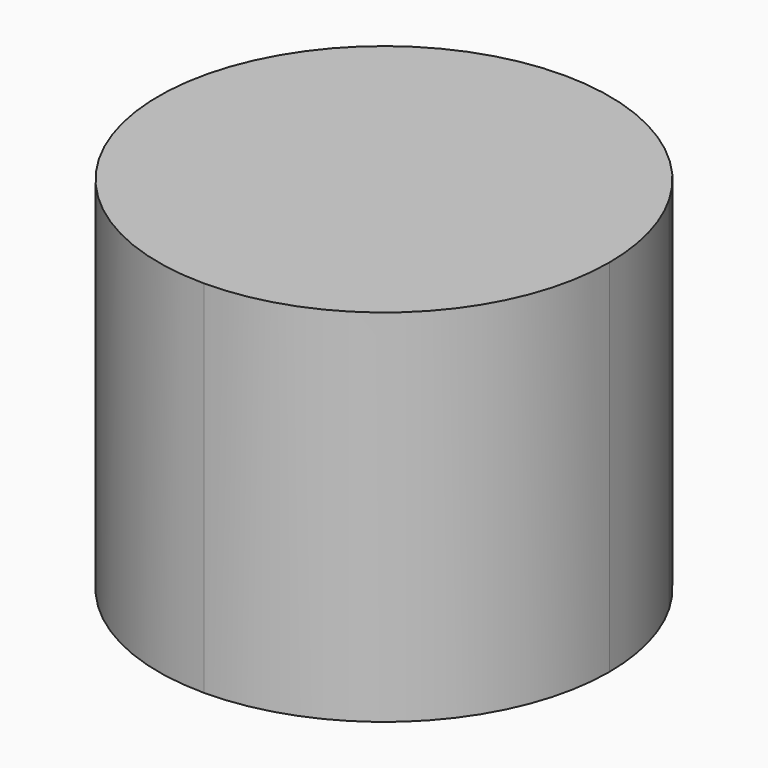
from build123d import *

# Parameters (mm, degrees)
F1_DEPTH = 20


with BuildPart() as f1:
    # F0 (on Top) → F1 (new body)
    with BuildSketch(Plane.XY):
        with BuildLine():
            Line((9.7427857926, 5.625), (10.8253175473, 6.25))
            ThreePointArc((10.8253175473, 6.25), (0, 12.5), (-10.8253175473, 6.25))
            Line((-10.8253175473, 6.25), (-9.7427857926, 5.625))
            ThreePointArc((-9.7427857926, 5.625), (-6.0870413337, 7.1392589354), (-3.6782032303, 4))
            ThreePointArc((-3.6782032303, 4), (-3.7889442948, 3.1588381034), (-4.113620668, 2.375))
            Line((-4.113620668, 2.375), (0, 0))
            Line((0, 0), (4.113620668, 2.375))
            ThreePointArc((4.113620668, 2.375), (5.3032032303, 6.8145825623), (9.7427857926, 5.625))
        make_face()
        with BuildLine():
            ThreePointArc((-10.8253175473, 6.25), (-10.8253175473, -6.25), (0, -12.5))
            Line((0, -12.5), (0, -11.25))
            ThreePointArc((0, -11.25), (-3.25, -8), (0, -4.75))
            Line((0, -4.75), (0, 0))
            Line((0, 0), (-4.113620668, 2.375))
            ThreePointArc((-4.113620668, 2.375), (-8.5532032303, 1.1854174377), (-9.7427857926, 5.625))
            Line((-9.7427857926, 5.625), (-10.8253175473, 6.25))
        make_face()
        with BuildLine():
            ThreePointArc((0, -12.5), (8.8388347648, -8.8388347648), (12.5, 0))
            ThreePointArc((12.5, 0), (12.0740728286, 3.2352380638), (10.8253175473, 6.25))
            Line((10.8253175473, 6.25), (9.7427857926, 5.625))
            ThreePointArc((9.7427857926, 5.625), (10.0674621657, 4.8411618966), (10.1782032303, 4))
            ThreePointArc((10.1782032303, 4), (7.7693651269, 0.8607410646), (4.113620668, 2.375))
            Line((4.113620668, 2.375), (0, 0))
            Line((0, 0), (0, -4.75))
            ThreePointArc((0, -4.75), (2.2980970389, -5.7019029611), (3.25, -8))
            ThreePointArc((3.25, -8), (2.2980970389, -10.2980970389), (0, -11.25))
            Line((0, -11.25), (0, -12.5))
        make_face()
        with BuildLine():
            Line((-4.113620668, 2.375), (-9.7427857926, 5.625))
            ThreePointArc((-9.7427857926, 5.625), (-8.5532032303, 1.1854174377), (-4.113620668, 2.375))
        make_face()
        with BuildLine():
            ThreePointArc((-3.6782032303, 4), (-6.0870413337, 7.1392589354), (-9.7427857926, 5.625))
            Line((-9.7427857926, 5.625), (-4.113620668, 2.375))
            ThreePointArc((-4.113620668, 2.375), (-3.7889442948, 3.1588381034), (-3.6782032303, 4))
        make_face()
        with BuildLine():
            Line((4.113620668, 2.375), (9.7427857926, 5.625))
            ThreePointArc((9.7427857926, 5.625), (5.3032032303, 6.8145825623), (4.113620668, 2.375))
        make_face()
        with BuildLine():
            ThreePointArc((10.1782032303, 4), (10.0674621657, 4.8411618966), (9.7427857926, 5.625))
            Line((9.7427857926, 5.625), (4.113620668, 2.375))
            ThreePointArc((4.113620668, 2.375), (7.7693651269, 0.8607410646), (10.1782032303, 4))
        make_face()
        with BuildLine():
            ThreePointArc((0, -4.75), (-3.25, -8), (0, -11.25))
            Line((0, -11.25), (0, -4.75))
        make_face()
        with BuildLine():
            Line((0, -4.75), (0, -11.25))
            ThreePointArc((0, -11.25), (2.2980970389, -10.2980970389), (3.25, -8))
            ThreePointArc((3.25, -8), (2.2980970389, -5.7019029611), (0, -4.75))
        make_face()
    extrude(amount=F1_DEPTH)


solid = f1.part
